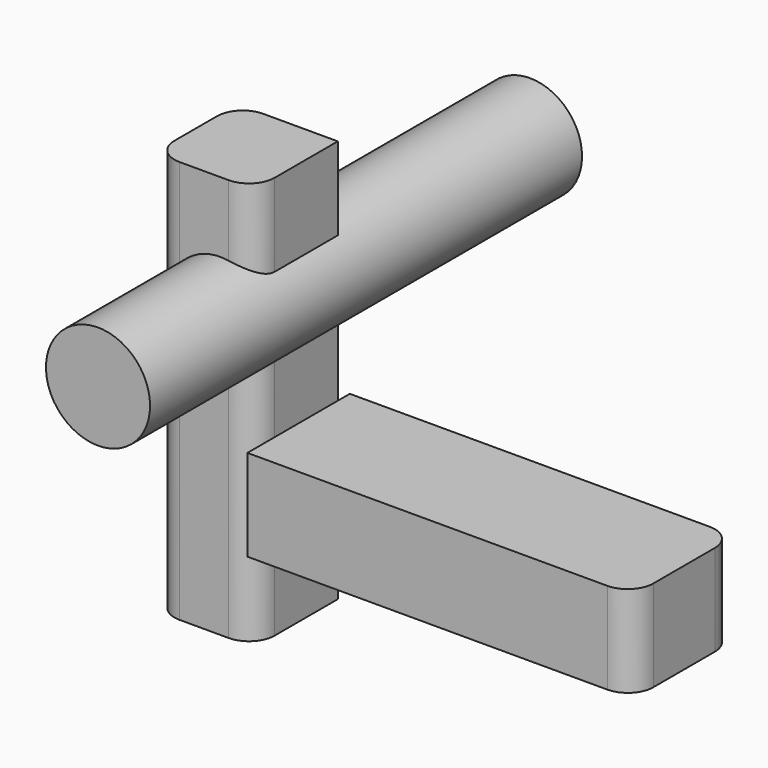
from build123d import *

# Parameters (mm, degrees)
F0_W     = 76.513152
F0_H     = 18.138839
F1_DEPTH = 25.4
F2_W     = 19.896142
F2_H     = 20.742996
F3_DEPTH = 80.01
F4_R     = 5.08
F4_2_R   = 5.08
F5_R     = 10.329208
F6_DEPTH = 53.594


with BuildPart() as f1:
    # F0 (on Front) → F1 (new body)
    with BuildSketch(Plane.XZ):
        with Locations((5.05217, 25.929697)):
            Rectangle(F0_W, F0_H)
    extrude(amount=F1_DEPTH)

    # F4
    f4_edges = [f1.edges().sort_by_distance(p)[0] for p in [
        (43.308746, -25.4, 25.929698),
        (43.308746, 0, 25.929698),
    ]]
    fillet(f4_edges, radius=F4_R)


with BuildPart() as f3:
    # F2 (on Top) → F3 (new body)
    with BuildSketch(Plane.XY):
        with Locations((-43.531485, -12.880155)):
            Rectangle(F2_W, F2_H)
    extrude(amount=F3_DEPTH)

    # F4#2
    f4_2_edges = [f3.edges().sort_by_distance(p)[0] for p in [
        (-33.583414, -23.251653, 40.005),
        (-53.479556, -2.508657, 40.005),
        (-53.479556, -23.251653, 40.005),
    ]]
    fillet(f4_2_edges, radius=F4_2_R)

    # F5 (on Front) → F6 (join, symmetric)
    with BuildSketch(Plane.XZ):
        with Locations((-40.307764, 55.738453)):
            Circle(F5_R)
    extrude(amount=F6_DEPTH, both=True)


solid = Compound([f1.part, f3.part])
